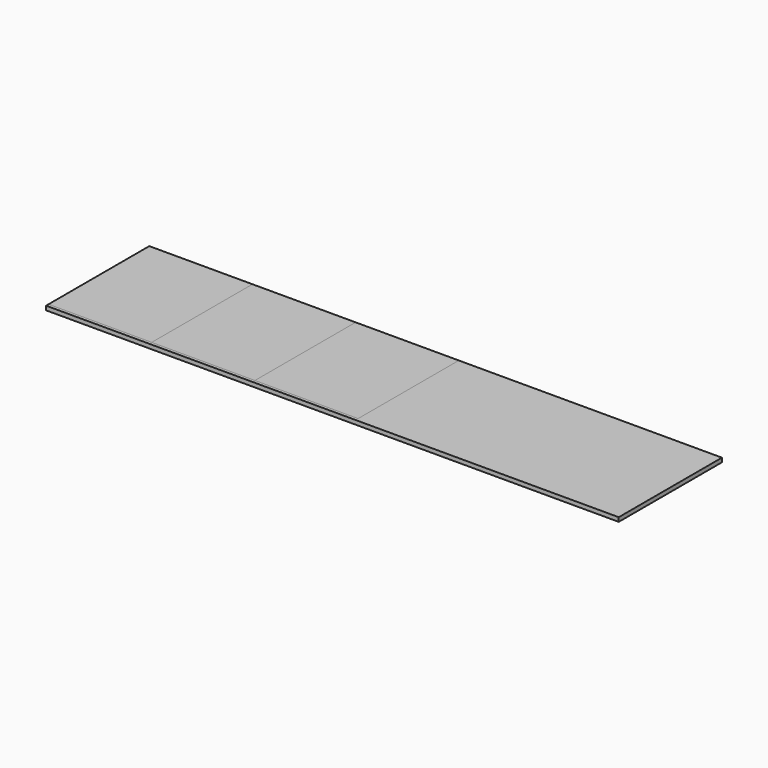
from build123d import *

# Parameters (mm, degrees)
F0_W     = 2220
F0_H     = 500
F1_DEPTH = 16
F2_W     = 400
F2_H     = 488
F3_DEPTH = 16
F4_DEPTH = 16
F5_DEPTH = 16


with BuildPart() as f1:
    # F0 (on Top) → F1 (new body)
    with BuildSketch(Plane.XY):
        Rectangle(F0_W, F0_H)
    extrude(amount=F1_DEPTH)


with BuildPart() as f3:
    # F2 (on face) → F3 (new body)
    with BuildSketch(Plane.XY.offset(16)):
        with Locations((-910, 6)):
            Rectangle(F2_W, F2_H)
    extrude(amount=-F3_DEPTH)


with BuildPart() as f4:
    # F2 (on face) → F4 (new body)
    with BuildSketch(Plane.XY.offset(16)):
        with Locations((-510, 6)):
            Rectangle(F2_W, F2_H)
    extrude(amount=-F4_DEPTH)


with BuildPart() as f5:
    # F2 (on face) → F5 (new body)
    with BuildSketch(Plane.XY.offset(16)):
        with Locations((-110, 6)):
            Rectangle(F2_W, F2_H)
    extrude(amount=-F5_DEPTH)


solid = Compound([f1.part, f3.part, f4.part, f5.part])
